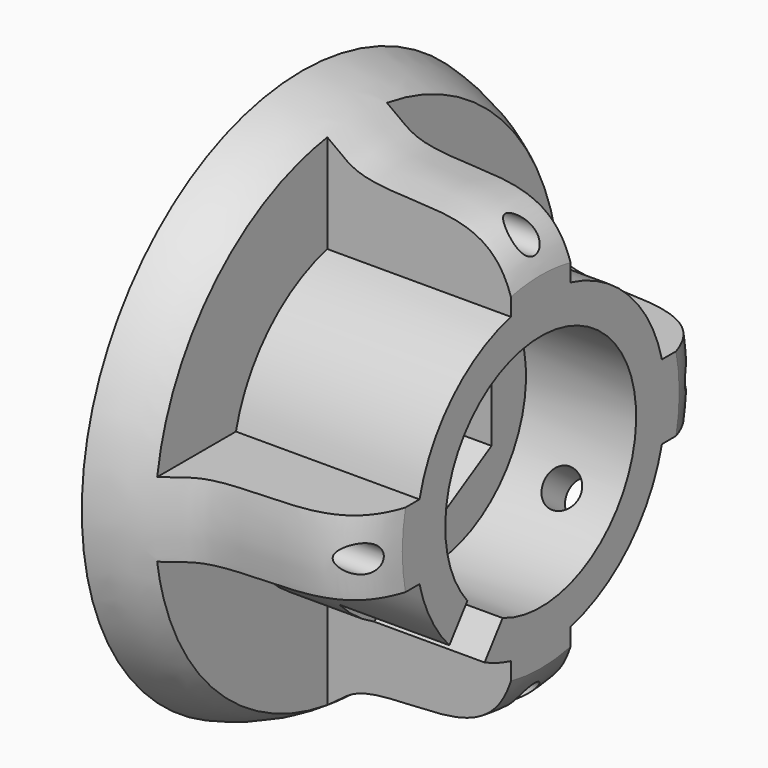
from build123d import *

# Parameters (mm, degrees)
SKETCH054_R             = 6.5
SKETCH054_R_2           = 2.5
PAD030_DEPTH            = 6
SKETCH058_R             = 5
SKETCH058_R_2           = 2.522437
PAD029_DEPTH            = 7
SKETCH063_R             = 6.5
SKETCH063_R_2           = 2.522437
PAD032_DEPTH            = 1
SKETCH055_R             = 1
PAD033_DEPTH            = 7
BODY019_ROLL_ANGLE      = 126.869898
BODY019_PLACEMENT_ANGLE = 180
SKETCH060_R             = 15
PAD031_DEPTH            = 13
POCKET016_DEPTH         = 2.5
POLARPATTERN013_COUNT   = 4
SKETCH056_R             = 0.75
HOLE004_DEPTH           = 25
POLARPATTERN011_COUNT   = 4
SKETCH057_R             = 4
POCKET018_DEPTH         = 10.501
POCKET019_DEPTH         = 4.5
BODY020_PLACEMENT_ANGLE = 90
POCKET020_DEPTH         = 10
POLARPATTERN010_COUNT   = 4
SKETCH052_R             = 1
POCKET017_DEPTH         = 5
POLARPATTERN012_COUNT   = 2
POLARPATTERN012_ANGLE   = 90
POCKET021_DEPTH         = 6


with BuildPart() as polea004:
    # Sketch054 → Pad030 (new body)
    with BuildSketch(Plane.YZ):
        Circle(SKETCH054_R)
        Circle(SKETCH054_R_2, mode=Mode.SUBTRACT)
    extrude(amount=PAD030_DEPTH)

    # Sketch058 (on Face3 of Pad030) → Pad029 (join)
    with BuildSketch(Plane(origin=(0, 0, 0), x_dir=(0, 1, 0), z_dir=(-1, 0, 0))):
        Circle(SKETCH058_R)
        Circle(SKETCH058_R_2, mode=Mode.SUBTRACT)
    extrude(amount=PAD029_DEPTH)

    # Sketch063 (on Face6 of Pad029) → Pad032 (join)
    with BuildSketch(Plane(origin=(-7, 0, 0), x_dir=(0, 1, 0), z_dir=(-1, 0, 0))):
        Circle(SKETCH063_R)
        Circle(SKETCH063_R_2, mode=Mode.SUBTRACT)
    extrude(amount=PAD032_DEPTH)

    # Sketch055 → Pad033 (join)
    with BuildSketch(Plane.XZ):
        with Locations((3, 0)):
            Circle(SKETCH055_R)
    extrude(amount=PAD033_DEPTH)


with BuildPart() as polea004_1:
    # Body019 roll: moved
    add(polea004.part.rotate(Axis((0, 0, 0), (1, 0, 0)), BODY019_ROLL_ANGLE))


with BuildPart() as polea004_2:
    # Body019 placement: moved
    add(polea004_1.part.moved(Location((-20, 0, 0))).rotate(Axis((-20, 0, 0), (0, 0, 1)), BODY019_PLACEMENT_ANGLE))


with BuildPart() as body021:
    # Sketch060 → Pad031 (new body)
    with BuildSketch(Plane.XY):
        Circle(SKETCH060_R)
    extrude(amount=PAD031_DEPTH)

    # Sketch053 (on Face3 of Pad031) → Pocket016 (cut)
    with BuildSketch(Plane.XY.offset(13)):
        with BuildLine():
            ThreePointArc((-5.26869, 1.578261), (0, -5.5), (5.26869, 1.578261))
            Line((2.107476, 12.131304), (5.26869, 1.578261))
            ThreePointArc((2.107476, 12.131304), (0, 13.7), (-2.107476, 12.131304))
            Line((-2.107476, 12.131304), (-5.26869, 1.578261))
        make_face()
    pocket016 = extrude(amount=-POCKET016_DEPTH, mode=Mode.SUBTRACT)

    # PolarPattern013: Pocket016 ×4 about axis
    polarpattern013_axis = Axis((0, 0, 13), (0, 0, 1))
    for i in range(1, POLARPATTERN013_COUNT):
        add(pocket016.rotate(polarpattern013_axis, i * 360 / POLARPATTERN013_COUNT), mode=Mode.SUBTRACT)

    # Sketch056 (on Face21 of PolarPattern013) → Hole004 (cut)
    with BuildSketch(Plane.XY.offset(10.5)):
        with Locations((0, 11)):
            Circle(SKETCH056_R)
    hole004 = extrude(amount=-HOLE004_DEPTH, mode=Mode.SUBTRACT)

    # PolarPattern011: Hole004 ×4 about axis
    polarpattern011_axis = Axis((0, 0, 10.5), (0, 0, 1))
    for i in range(1, POLARPATTERN011_COUNT):
        add(hole004.rotate(polarpattern011_axis, i * 360 / POLARPATTERN011_COUNT), mode=Mode.SUBTRACT)

    # Sketch057 (on Face25 of PolarPattern011) → Pocket018 (cut, through all)
    with BuildSketch(Plane.XY.offset(10.5)):
        Circle(SKETCH057_R)
    extrude(amount=-POCKET018_DEPTH, mode=Mode.SUBTRACT)

    # Sketch059 (on Face24 of Pocket018) → Pocket019 (cut)
    with BuildSketch(Plane.XY.offset(10.5)):
        Polygon((-2.396004, 4.15), (-4.792007, 0), (-2.396004, -4.15), (2.396004, -4.15), (4.792007, 0), (2.396004, 4.15), align=None)
    extrude(amount=-POCKET019_DEPTH, mode=Mode.SUBTRACT)


with BuildPart() as body021_1:
    # Body020 placement: moved
    add(body021.part.moved(Location((-20, 0, 0))).rotate(Axis((-20, 0, 0), (0, -1, 0)), BODY020_PLACEMENT_ANGLE))

    # Cut002: cut polea004
    add(polea004_2.part, mode=Mode.SUBTRACT)

    # Sketch062 → Groove002 (revolve, cut)
    with BuildSketch(Plane.XZ):
        with BuildLine():
            add(Edge.make_bspline(
                [(-33, 15), (-29.93516, 14.32086), (-29.276634, 11.979435), (-22.464561, 12.610443), (-20.518253, 11.015347), (-20, 9.429168)],
                knots=[0, 0, 0, 0, 0.333333, 0.666667, 1, 1, 1, 1], degree=3))
            Line((-20, 9.429168), (-20, 15))
            Line((-20, 15), (-33, 15))
        make_face()
    revolve(axis=Axis((0, 0, 0), (1, 0, 0)), mode=Mode.SUBTRACT)

    # Sketch061 (on Face16 of Groove002) → Pocket020 (cut)
    with BuildSketch(Plane.YZ.offset(-20)):
        with BuildLine():
            Line((-17, 17), (-2.03016, 17))
            Line((-2.03016, 17), (-2.03016, 8.253996))
            ThreePointArc((-2.03016, 8.253996), (-6.010282, 6.010534), (-8.253911, 2.030506))
            Line((-8.253911, 2.030506), (-17, 2.030506))
            Line((-17, 2.030506), (-17, 17))
        make_face()
    pocket020 = extrude(amount=-POCKET020_DEPTH, mode=Mode.SUBTRACT)

    # PolarPattern010: Pocket020 ×4 about axis
    polarpattern010_axis = Axis((-20, 0, 0), (1, 0, 0))
    for i in range(1, POLARPATTERN010_COUNT):
        add(pocket020.rotate(polarpattern010_axis, i * 360 / POLARPATTERN010_COUNT), mode=Mode.SUBTRACT)

    # Sketch052 (on Face54 of PolarPattern010) → Pocket017 (cut, symmetric)
    with BuildSketch(Plane(origin=(0, -4.2, -5.6), x_dir=(1, 0, 0), z_dir=(0, 0.6, 0.8))):
        with Locations((-23, 0)):
            Circle(SKETCH052_R)
    pocket017 = extrude(amount=POCKET017_DEPTH, both=True, mode=Mode.SUBTRACT)

    # PolarPattern012: Pocket017 ×2 about axis
    polarpattern012_axis = Axis((0, 0, 0), (1, 0, 0))
    for i in range(1, POLARPATTERN012_COUNT):
        add(pocket017.rotate(polarpattern012_axis, i * POLARPATTERN012_ANGLE / (POLARPATTERN012_COUNT - 1)), mode=Mode.SUBTRACT)

    # Sketch064 (on Face16 of PolarPattern012) → Pocket021 (cut)
    with BuildSketch(Plane.YZ.offset(-20)):
        Polygon((-2.4, -0.7), (-14.595547, -16.960729), (-12.195547, -18.760729), (0, -2.5), align=None)
    extrude(amount=-POCKET021_DEPTH, mode=Mode.SUBTRACT)


solid = body021_1.part
